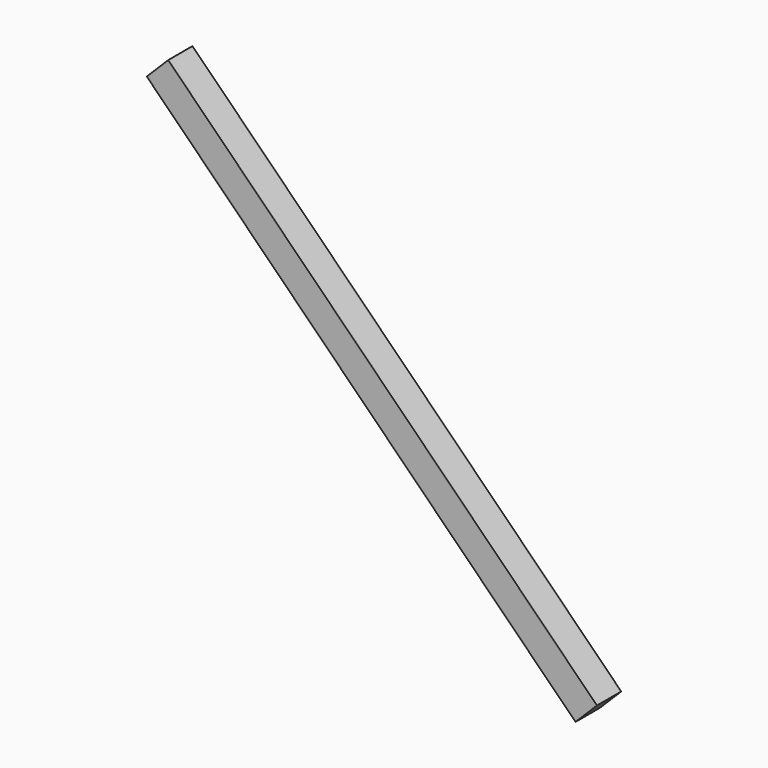
from build123d import *

# Parameters (mm, degrees)
F1_W          = 100
F1_H          = 100
F2_DEPTH      = 1000
F2_DEPTH_BACK = 1000


with BuildPart() as f2:
    # F1 (on face) → F2 (new body, two sides)
    with BuildSketch(Plane(origin=(0, 0, 0), x_dir=(0, 1, 0), z_dir=(0.7071067812, 0, -0.7071067812))) as f2_sk:
        Rectangle(F1_W, F1_H)
    extrude(amount=F2_DEPTH)
    extrude(f2_sk.sketch, amount=-F2_DEPTH_BACK)


solid = f2.part
